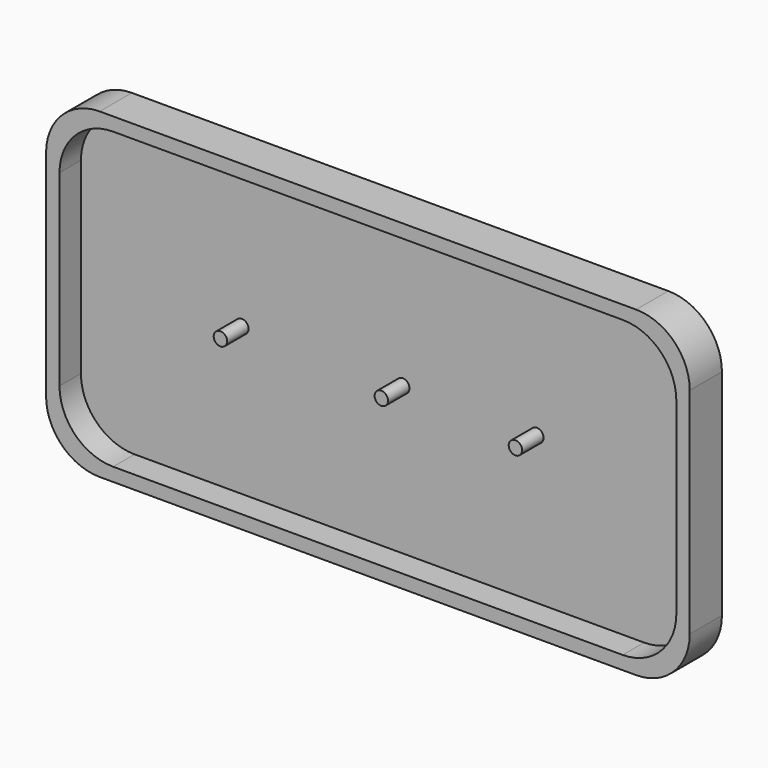
from build123d import *

# Parameters (mm, degrees)
F1_DEPTH = 19.05
F3_DEPTH = 12.7
F4_R     = 3.175
F5_DEPTH = 12.7


with BuildPart() as f1:
    # F0 (on Front) → F1 (new body)
    with BuildSketch(Plane.XZ):
        with BuildLine():
            ThreePointArc((0, 25.4), (7.439488, 7.439488), (25.4, 0))
            Line((25.4, 0), (279.4, 0))
            ThreePointArc((279.4, 0), (297.360512, 7.439488), (304.8, 25.4))
            Line((304.8, 25.4), (304.8, 127))
            ThreePointArc((304.8, 127), (297.360512, 144.960512), (279.4, 152.4))
            Line((279.4, 152.4), (25.4, 152.4))
            ThreePointArc((25.4, 152.4), (7.439488, 144.960512), (0, 127))
            Line((0, 127), (0, 25.4))
        make_face()
    extrude(amount=F1_DEPTH)

    # F2 (on face) → F3 (cut)
    with BuildSketch(Plane.XZ.offset(19.05)):
        with BuildLine():
            ThreePointArc((6.35, 31.75), (13.789488, 13.789488), (31.75, 6.35))
            Line((31.75, 6.35), (273.05, 6.35))
            ThreePointArc((273.05, 6.35), (291.010512, 13.789488), (298.45, 31.75))
            Line((298.45, 31.75), (298.45, 120.65))
            ThreePointArc((298.45, 120.65), (291.010512, 138.610512), (273.05, 146.05))
            Line((273.05, 146.05), (31.75, 146.05))
            ThreePointArc((31.75, 146.05), (13.789488, 138.610512), (6.35, 120.65))
            Line((6.35, 120.65), (6.35, 31.75))
        make_face()
    extrude(amount=-F3_DEPTH, mode=Mode.SUBTRACT)

    # F4 (on face) → F5 (join)
    with BuildSketch(Plane.XZ.offset(6.35)):
        with Locations((82.55, 76.2)):
            Circle(F4_R)
        with Locations((158.75, 76.2)):
            Circle(F4_R)
        with Locations((222.25, 76.2)):
            Circle(F4_R)
    extrude(amount=F5_DEPTH)


solid = f1.part
